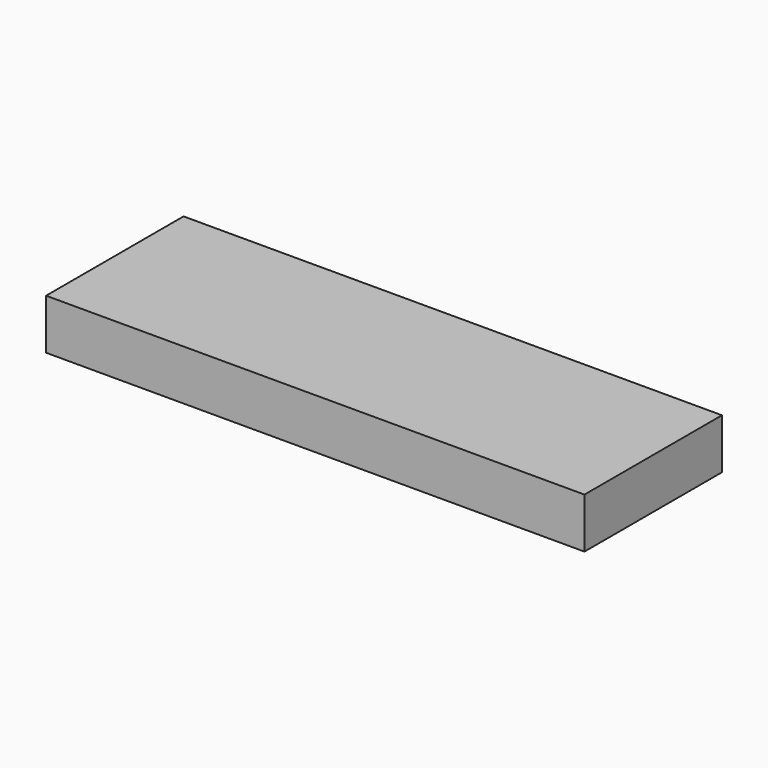
from build123d import *

# Parameters (mm, degrees)
SKETCH_W  = 160.782
SKETCH_H  = 51.308
PAD_DEPTH = 15


with BuildPart() as part:
    # Sketch → Pad (new body)
    with BuildSketch(Plane.XY):
        with Locations((80.391, 25.654)):
            Rectangle(SKETCH_W, SKETCH_H)
    extrude(amount=PAD_DEPTH)


solid = part.part
